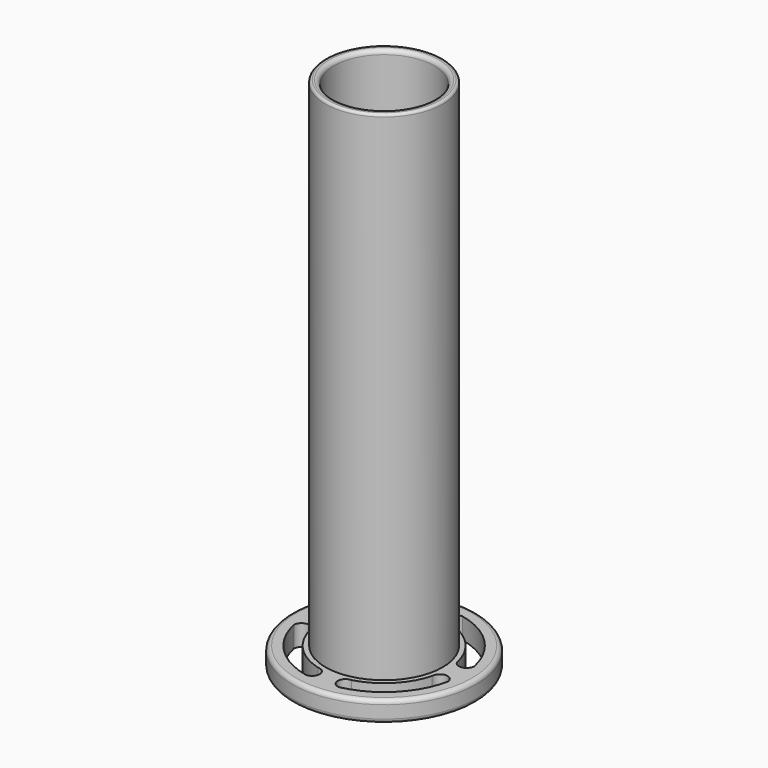
from build123d import *

# Parameters (mm, degrees)
PAD_DEPTH         = 10
ARRAY001_COUNT    = 4
CYLINDER021_R     = 12
CYLINDER021_DEPTH = 124
CYLINDER022_R     = 22
CYLINDER022_DEPTH = 5
FILLET004_R       = 1
CYLINDER020_R     = 14
CYLINDER020_DEPTH = 124
FILLET001_R       = 0.6
FILLET002_R       = 1


with BuildPart() as long_hole_array:
    # Sketch → Pad (new body)
    with BuildSketch(Plane.XY):
        with BuildLine():
            ThreePointArc((-18.36954, -4), (-13.293607, -13.293607), (-4, -18.36954))
            ThreePointArc((-4, -18.36954), (-2.147351, -16.516891), (-4, -14.664242))
            ThreePointArc((-14.664242, -4), (-10.748023, -10.748023), (-4, -14.664242))
            ThreePointArc((-14.664242, -4), (-16.516891, -2.147351), (-18.36954, -4))
        make_face()
    extrude(amount=PAD_DEPTH)

    # Array001: long hole array ×4 about axis
    array001_axis = Axis((0, 0, 0), (0, 0, 1))


with BuildPart() as long_hole_array_1:
    add(long_hole_array.part)
    for i in range(1, ARRAY001_COUNT):
        add(long_hole_array.part.rotate(array001_axis, i * 360 / ARRAY001_COUNT))


with BuildPart() as top_hole_fusion:
    # Cylinder021 → Cylinder021 (new body)
    with BuildSketch(Plane.XY):
        Circle(CYLINDER021_R)
    extrude(amount=CYLINDER021_DEPTH)

    # Fusion004: union long hole array
    add(long_hole_array_1.part)


with BuildPart() as top_bottom_connector_fillet:
    # Cylinder022 → Cylinder022 (new body)
    with BuildSketch(Plane.XY):
        Circle(CYLINDER022_R)
    extrude(amount=CYLINDER022_DEPTH)

    # Fillet004
    fillet004_edges = [top_bottom_connector_fillet.edges().sort_by_distance(p)[0] for p in [
        (-22, 0, 5),
        (-22, 0, 0),
    ]]
    fillet(fillet004_edges, radius=FILLET004_R)


with BuildPart() as top_tube_cut_fillet:
    # Cylinder020 → Cylinder020 (new body)
    with BuildSketch(Plane.XY):
        Circle(CYLINDER020_R)
    extrude(amount=CYLINDER020_DEPTH)

    # Fillet001
    fillet001_edges = [top_tube_cut_fillet.edges().sort_by_distance(p)[0] for p in [
        (-14, 0, 124),
    ]]
    fillet(fillet001_edges, radius=FILLET001_R)

    # Fusion: union top bottom connector fillet
    add(top_bottom_connector_fillet.part)

    # Cut: cut top hole fusion
    add(top_hole_fusion.part, mode=Mode.SUBTRACT)

    # Fillet002
    fillet002_edges = [top_tube_cut_fillet.edges().sort_by_distance(p)[0] for p in [
        (-12, 0, 124),
    ]]
    fillet(fillet002_edges, radius=FILLET002_R)


solid = top_tube_cut_fillet.part
